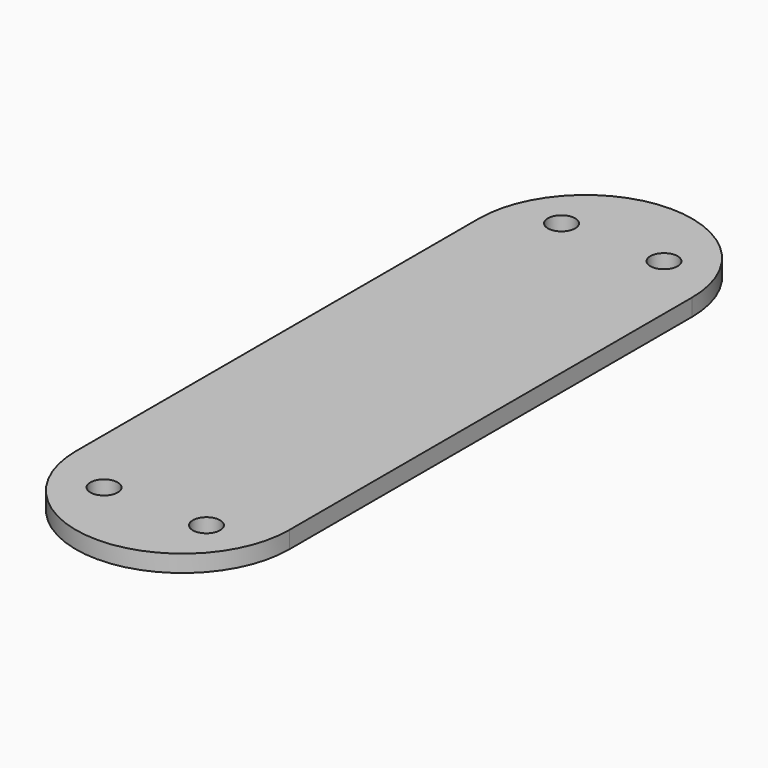
from build123d import *

# Parameters (mm, degrees)
F0_R     = 1.6
F1_DEPTH = 2


with BuildPart() as f1:
    # F0 (on Top) → F1 (new body)
    with BuildSketch(Plane.XY):
        with BuildLine():
            Line((12.5, -29.5), (12.5, 29.5))
            ThreePointArc((12.5, 29.5), (0, 42), (-12.5, 29.5))
            Line((-12.5, 29.5), (-12.5, -29.5))
            ThreePointArc((-12.5, -29.5), (0, -42), (12.5, -29.5))
        make_face()
        with Locations((-6, -33.5)):
            Circle(F0_R, mode=Mode.SUBTRACT)
        with Locations((6, -33.5)):
            Circle(F0_R, mode=Mode.SUBTRACT)
        with Locations((-6, 33.5)):
            Circle(F0_R, mode=Mode.SUBTRACT)
        with Locations((6, 33.5)):
            Circle(F0_R, mode=Mode.SUBTRACT)
        with BuildLine():
            Line((12.5, -29.5), (12.5, 29.5))
            ThreePointArc((12.5, 29.5), (0, 42), (-12.5, 29.5))
            Line((-12.5, 29.5), (-12.5, -29.5))
            ThreePointArc((-12.5, -29.5), (0, -42), (12.5, -29.5))
        make_face()
        with Locations((-6, -33.5)):
            Circle(F0_R, mode=Mode.SUBTRACT)
        with Locations((6, -33.5)):
            Circle(F0_R, mode=Mode.SUBTRACT)
        with Locations((-6, 33.5)):
            Circle(F0_R, mode=Mode.SUBTRACT)
        with Locations((6, 33.5)):
            Circle(F0_R, mode=Mode.SUBTRACT)
    extrude(amount=F1_DEPTH)


solid = f1.part
